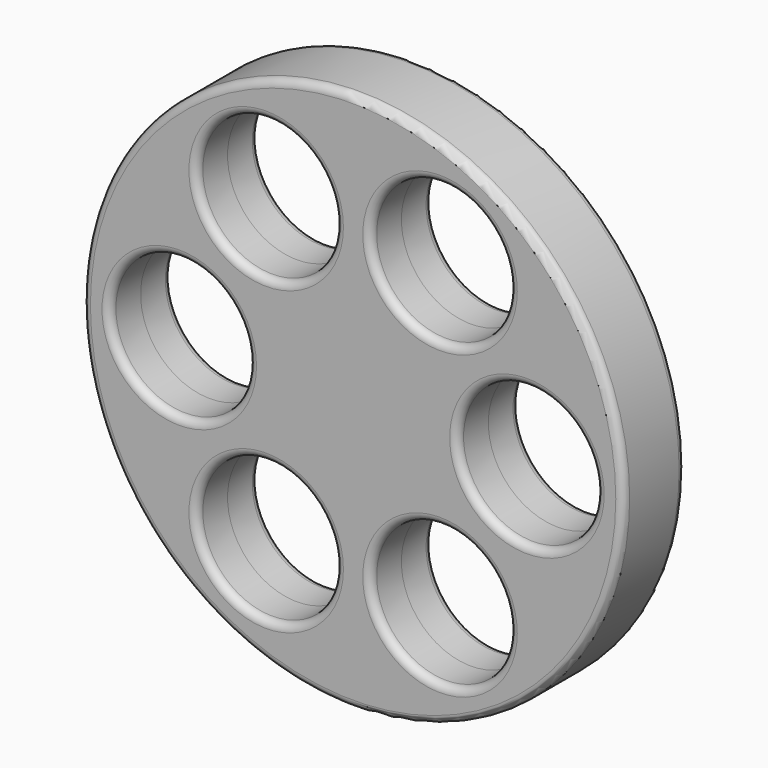
from build123d import *

# Parameters (mm, degrees)
F0_R          = 35
F0_R_2        = 9
F1_DEPTH      = 5
F1_DEPTH_BACK = 5
F2_R          = 1


with BuildPart() as f1:
    # F0 (on Front) → F1 (new body, two sides)
    with BuildSketch(Plane.XZ) as f1_sk:
        Circle(F0_R)
        with Locations((-11.25, -19.485572)):
            Circle(F0_R_2, mode=Mode.SUBTRACT)
        with Locations((11.25, -19.485572)):
            Circle(F0_R_2, mode=Mode.SUBTRACT)
        with Locations((-22.5, 0)):
            Circle(F0_R_2, mode=Mode.SUBTRACT)
        with Locations((-11.25, 19.485572)):
            Circle(F0_R_2, mode=Mode.SUBTRACT)
        with Locations((22.5, 0)):
            Circle(F0_R_2, mode=Mode.SUBTRACT)
        with Locations((11.25, 19.485572)):
            Circle(F0_R_2, mode=Mode.SUBTRACT)
    extrude(amount=F1_DEPTH)
    extrude(f1_sk.sketch, amount=-F1_DEPTH_BACK)

    # F2
    f2_edges = [f1.edges().sort_by_distance(p)[0] for p in [
        (-35, -5, 0),
        (-20.25, -5, 19.485572),
        (2.25, -5, 19.485572),
        (13.5, -5, 0),
        (2.25, -5, -19.485572),
        (-20.25, -5, -19.485572),
        (-31.5, -5, 0),
        (-35, 5, 0),
        (2.25, 5, -19.485572),
        (-20.25, 5, -19.485572),
        (-31.5, 5, 0),
        (-20.25, 5, 19.485572),
        (2.25, 5, 19.485572),
        (13.5, 5, 0),
    ]]
    fillet(f2_edges, radius=F2_R)


solid = f1.part
